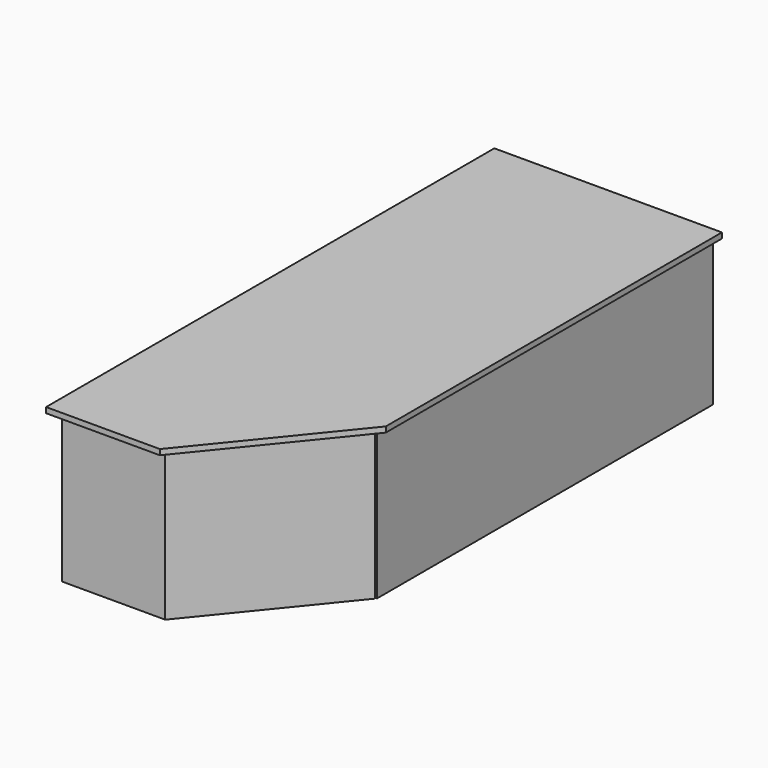
from build123d import *

# Parameters (mm, degrees)
F0_W     = 1219.2
F0_H     = 2438.4
F1_DEPTH = 863.6
F2_W     = 50.8
F2_H     = 2438.4
F2_W_2   = 1219.2
F3_DEPTH = 31.75
F5_DEPTH = 31.75
F6_DEPTH = 863.6


with BuildPart() as f1:
    # F0 (on Top) → F1 (new body)
    with BuildSketch(Plane.XY):
        with Locations((-609.6, -1219.2)):
            Rectangle(F0_W, F0_H)
    extrude(amount=F1_DEPTH)

    # F2 (on face) → F3 (join)
    with BuildSketch(Plane.XY.offset(863.6)):
        with Locations((-1244.6, -1219.2)):
            Rectangle(F2_W, F2_H)
        Polygon((-1219.2, -2438.4), (-1270, -2438.4), (-1270, -3251.2), (-609.6, -3251.2), (50.8, -2438.4), (0, -2438.4), align=None)
        with Locations((25.4, -1219.2)):
            Rectangle(F2_W, F2_H)
        with Locations((-609.6, -1219.2)):
            Rectangle(F2_W_2, F2_H)
        Polygon((-1219.2, -2438.4), (-1270, -2438.4), (-1270, -3251.2), (-609.6, -3251.2), (50.8, -2438.4), (0, -2438.4), align=None)
    extrude(amount=F3_DEPTH)

    # F2 (on face) → F5 (join)
    with BuildSketch(Plane.XY.offset(863.6)):
        with Locations((-609.6, -1219.2)):
            Rectangle(F2_W_2, F2_H)
    extrude(amount=F5_DEPTH)

    # F4 (on face) → F6 (join)
    with BuildSketch(Plane.XY.offset(863.6)):
        Polygon((-619.125, -3200.4), (-5.159375, -2444.75), (-1219.2, -2444.75), (-1219.2, -3200.4), align=None)
    extrude(amount=-F6_DEPTH)


solid = f1.part
